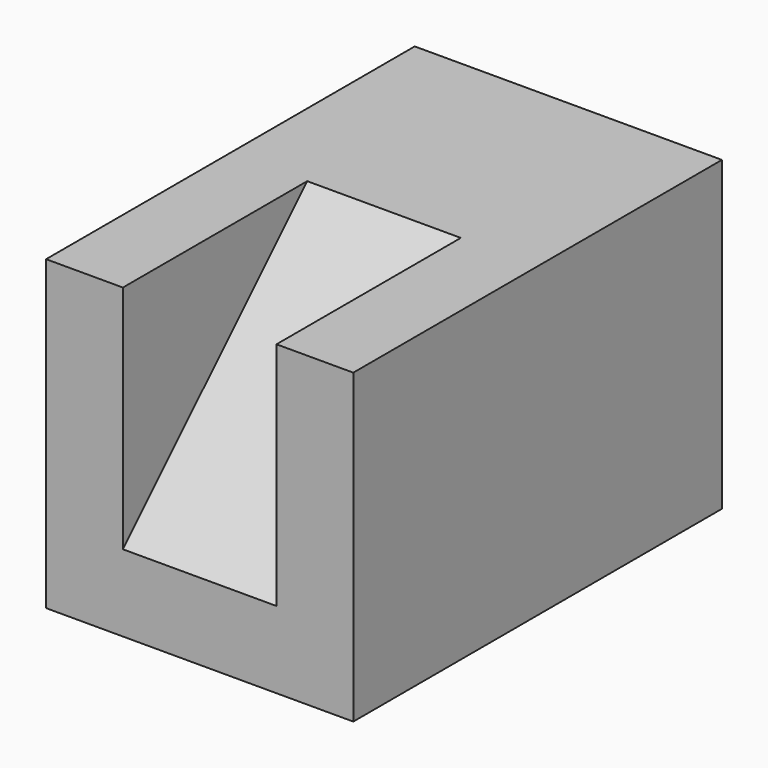
from build123d import *

# Parameters (mm, degrees)
F0_W     = 6.35
F0_H     = 25.4
F1_DEPTH = 38.1
F2_W     = 19.05
F2_H     = 25.4
F3_DEPTH = 19.05
F4_W     = 19.05
F4_H     = 6.35
F5_DEPTH = 19.05
F7_DEPTH = 12.7
F8_DEPTH = 19.05


with BuildPart() as f1:
    # F0 (on Front) → F1 (new body)
    with BuildSketch(Plane.XZ):
        with Locations((3.175, 12.7)):
            Rectangle(F0_W, F0_H)
    extrude(amount=F1_DEPTH)

    # F2 (on face) → F3 (join)
    with BuildSketch(Plane.YZ.offset(6.35)):
        with Locations((-9.525, 12.7)):
            Rectangle(F2_W, F2_H)
    extrude(amount=F3_DEPTH)

    # F4 (on face) → F5 (join)
    with BuildSketch(Plane.XZ.offset(19.05)):
        with Locations((15.875, 3.175)):
            Rectangle(F4_W, F4_H)
    extrude(amount=F5_DEPTH)

    # F6 (on face) → F7 (join)
    with BuildSketch(Plane.YZ.offset(6.35)):
        Polygon((-19.05, 25.4), (-38.1, 6.35), (-19.05, 6.35), align=None)
    extrude(amount=F7_DEPTH)

    # F8 (add): a face of the model
    f8_faces = [f1.faces().sort_by_distance(p)[0] for p in [
        (22.225, -19.05, 15.875),
    ]]
    extrude(f8_faces, amount=F8_DEPTH)


solid = f1.part
